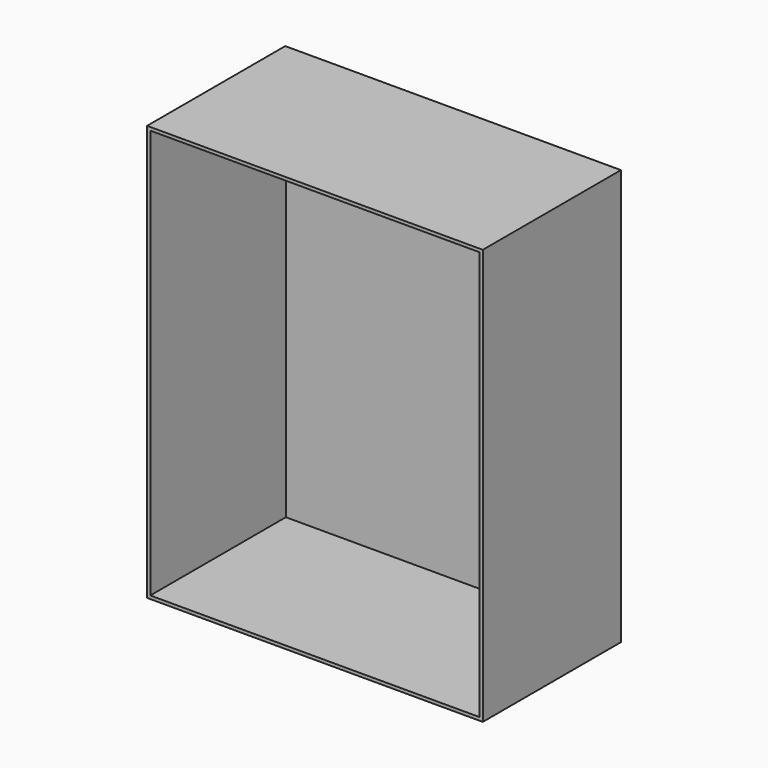
from build123d import *

# Parameters (mm, degrees)
F0_W     = 210
F0_H     = 260
F1_DEPTH = 54
F2_T     = -2


with BuildPart() as f1:
    # F0 (on Front) → F1 (new body, symmetric)
    with BuildSketch(Plane.XZ):
        Rectangle(F0_W, F0_H)
    extrude(amount=F1_DEPTH, both=True)

    # F2
    f2_openings = [f1.faces().sort_by_distance(p)[0] for p in [
        (0, -54, 0),
    ]]
    offset(amount=F2_T, openings=f2_openings)


solid = f1.part
